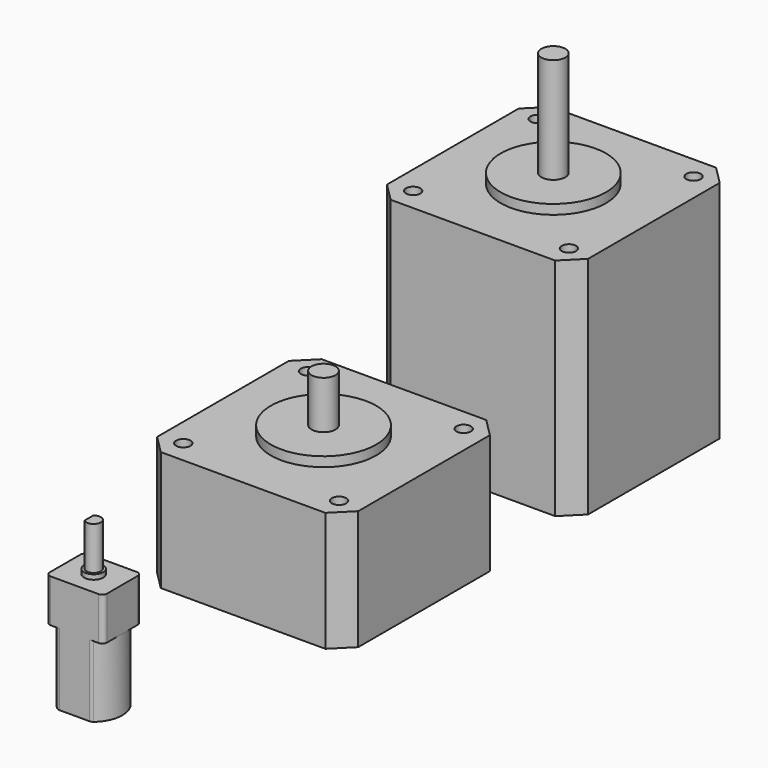
from build123d import *

# Parameters (mm, degrees)
F3_DEPTH  = 47
F4_R      = 11
F4_R_2    = 2.5
F5_DEPTH  = 2
F6_DEPTH  = 24
F4_R_3    = 1.5
F7_DEPTH  = 5
F8_DEPTH  = 25
F9_R      = 1.5
F10_DEPTH = 5
F9_R_2    = 11
F9_R_3    = 2.5
F11_DEPTH = 2
F12_DEPTH = 12
F14_DEPTH = 15
F16_DEPTH = 9
F17_R     = 2
F18_DEPTH = 1
F19_DEPTH = 10
F20_R     = 1
F21_R     = 1


with BuildPart() as f3:
    # F2 (on Top) → F3 (new body)
    with BuildSketch(Plane.XY):
        Polygon((-17.1837661841, 21), (-21, 17.1837661841), (-21, -17.1837661841), (-17.1837661841, -21), (17.1837661841, -21), (21, -17.1837661841), (21, 17.1837661841), (17.1837661841, 21), align=None)
    extrude(amount=F3_DEPTH)

    # F4 (on face) → F5 (join)
    with BuildSketch(Plane.XY.offset(47)):
        Circle(F4_R)
        Circle(F4_R_2, mode=Mode.SUBTRACT)
    extrude(amount=F5_DEPTH)

    # F6 (add): a face of the model
    f6_faces = [f3.faces().sort_by_distance(p)[0] for p in [
        (0, 0, 47),
    ]]
    extrude(f6_faces, amount=F6_DEPTH)

    # F4 (on face) → F7 (cut)
    with BuildSketch(Plane.XY.offset(47)):
        with Locations((16.2634559673, -16.2634559673)):
            Circle(F4_R_3)
        with Locations((16.2634559673, 16.2634559673)):
            Circle(F4_R_3)
        with Locations((-16.2634559673, 16.2634559673)):
            Circle(F4_R_3)
        with Locations((-16.2634559673, -16.2634559673)):
            Circle(F4_R_3)
    extrude(amount=-F7_DEPTH, mode=Mode.SUBTRACT)


with BuildPart() as f8:
    # F2 (on Top) → F8 (new body)
    with BuildSketch(Plane.XY):
        Polygon((-17.1837661841, -39), (-21, -42.8162338159), (-21, -77.1837661841), (-17.1837661841, -81), (17.1837661841, -81), (21, -77.1837661841), (21, -42.8162338159), (17.1837661841, -39), align=None)
    extrude(amount=F8_DEPTH)

    # F9 (on face) → F10 (cut)
    with BuildSketch(Plane.XY.offset(25)):
        with Locations((-16.2634559673, -76.2634559673)):
            Circle(F9_R)
        with Locations((16.2634559673, -76.2634559673)):
            Circle(F9_R)
        with Locations((16.2634559673, -43.7365440327)):
            Circle(F9_R)
        with Locations((-16.2634559673, -43.7365440327)):
            Circle(F9_R)
    extrude(amount=-F10_DEPTH, mode=Mode.SUBTRACT)

    # F9 (on face) → F11 (join)
    with BuildSketch(Plane.XY.offset(25)):
        with Locations((0, -60)):
            Circle(F9_R_2)
        with Locations((0, -60)):
            Circle(F9_R_3, mode=Mode.SUBTRACT)
    extrude(amount=F11_DEPTH)

    # F9 (on face) → F12 (join)
    with BuildSketch(Plane.XY.offset(25)):
        with Locations((0, -60)):
            Circle(F9_R_3)
    extrude(amount=F12_DEPTH)


with BuildPart() as f14:
    # F13 (on Top) → F14 (new body)
    with BuildSketch(Plane.XY):
        with BuildLine():
            Line((3.5, -115), (-3.5, -115))
            ThreePointArc((-3.5, -115), (-6, -120), (-3.5, -125))
            Line((-3.5, -125), (3.5, -125))
            ThreePointArc((3.5, -125), (6, -120), (3.5, -115))
        make_face()
    extrude(amount=F14_DEPTH)

    # F15 (on face) → F16 (join)
    with BuildSketch(Plane.XY.offset(15)):
        with BuildLine():
            Line((-6, -125), (-3.5, -125))
            ThreePointArc((-3.5, -125), (-5.3401699437, -122.7950849719), (-6, -120))
            Line((-6, -120), (-6, -125))
        make_face()
        with BuildLine():
            Line((-6, -115), (-6, -120))
            ThreePointArc((-6, -120), (-5.3401699437, -117.2049150281), (-3.5, -115))
            Line((-3.5, -115), (-6, -115))
        make_face()
        with BuildLine():
            Line((-3.5, -125), (3.5, -125))
            ThreePointArc((3.5, -125), (5.3401699437, -122.7950849719), (6, -120))
            ThreePointArc((6, -120), (5.3401699437, -117.2049150281), (3.5, -115))
            Line((3.5, -115), (-3.5, -115))
            ThreePointArc((-3.5, -115), (-5.3401699437, -117.2049150281), (-6, -120))
            ThreePointArc((-6, -120), (-5.3401699437, -122.7950849719), (-3.5, -125))
        make_face()
        with BuildLine():
            ThreePointArc((3.5, -115), (5.3401699437, -117.2049150281), (6, -120))
            Line((6, -120), (6, -115))
            Line((6, -115), (3.5, -115))
        make_face()
        with BuildLine():
            Line((3.5, -125), (6, -125))
            Line((6, -125), (6, -120))
            ThreePointArc((6, -120), (5.3401699437, -122.7950849719), (3.5, -125))
        make_face()
    extrude(amount=F16_DEPTH)

    # F17 (on face) → F18 (join)
    with BuildSketch(Plane.XY.offset(24)):
        with Locations((0, -120)):
            Circle(F17_R)
        with BuildLine():
            Line((-1, -121.1180339887), (-1, -118.8819660113))
            ThreePointArc((-1, -118.8819660113), (1.5, -120), (-1, -121.1180339887))
        make_face(mode=Mode.SUBTRACT)
    extrude(amount=F18_DEPTH)

    # F19 (add): a face of the model
    f19_faces = [f14.faces().sort_by_distance(p)[0] for p in [
        (0.1480240656, -120, 24),
    ]]
    extrude(f19_faces, amount=F19_DEPTH)

    # F20
    f20_edges = [f14.edges().sort_by_distance(p)[0] for p in [
        (6, -125, 19.5),
        (6, -115, 19.5),
        (-6, -115, 19.5),
        (-6, -125, 19.5),
    ]]
    fillet(f20_edges, radius=F20_R)

    # F21
    f21_edges = [f14.edges().sort_by_distance(p)[0] for p in [
        (3.5, -125, 7.5),
        (-3.5, -125, 7.5),
        (3.5, -115, 7.5),
        (-3.5, -115, 7.5),
    ]]
    fillet(f21_edges, radius=F21_R)


solid = Compound([f3.part, f8.part, f14.part])
